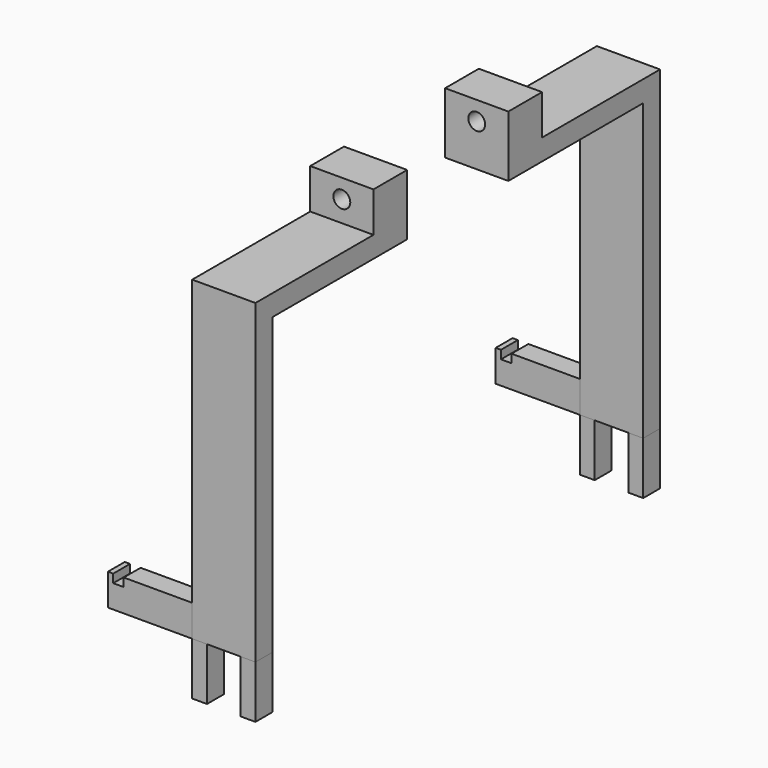
from build123d import *

# Parameters (mm, degrees)
F1_DEPTH  = 30
F2_W      = 30
F2_H      = 20
F3_DEPTH  = 20
F4_W      = 30
F4_H      = 20
F5_DEPTH  = 20
F7_D      = 8
F7_2_D    = 8
F8_W      = 7
F8_H      = 10
F9_DEPTH  = 30
F10_W     = 10
F10_H     = 15
F11_DEPTH = 40
F12_W     = 5
F12_H     = 4
F13_DEPTH = 240.001
F14_W     = 5
F14_H     = 4
F15_DEPTH = 240.001
F17_DEPTH = 69


with BuildPart() as f1:
    # F0 (on Right) → F1 (new body)
    with BuildSketch(Plane.YZ):
        Polygon((-120, 150), (-120, 0), (-110, 0), (-110, 140), (-30, 140), (-30, 150), align=None)
    extrude(amount=F1_DEPTH)

    # F2 (on face) → F3 (join)
    with BuildSketch(Plane.XY.offset(150)):
        with Locations((15, -40)):
            Rectangle(F2_W, F2_H)
    extrude(amount=F3_DEPTH)

    # F7 (through all)
    with Locations(Plane(origin=(0, 50, 0), x_dir=(-1, 0, 0), z_dir=(0, 1, 0))):
        with Locations((-15, 160)):
            Hole(F7_D / 2)

    # F14 (on face) → F15 (cut, through all)
    with BuildSketch(Plane(origin=(0, 120, 0), x_dir=(-1, 0, 0), z_dir=(0, 1, 0))):
        with Locations((35, 13)):
            Rectangle(F14_W, F14_H)
    extrude(amount=-F15_DEPTH, mode=Mode.SUBTRACT)


with BuildPart() as f1b:
    # F0 (on Right) → F1, piece 2 (new body)
    with BuildSketch(Plane.YZ):
        Polygon((110, 140), (110, 0), (120, 0), (120, 150), (30, 150), (30, 140), align=None)
    extrude(amount=F1_DEPTH)

    # F4 (on face) → F5 (join)
    with BuildSketch(Plane.XY.offset(150)):
        with Locations((15, 40)):
            Rectangle(F4_W, F4_H)
    extrude(amount=F5_DEPTH)

    # F7#2 (through all)
    with Locations(Plane(origin=(0, 50, 0), x_dir=(-1, 0, 0), z_dir=(0, 1, 0))):
        with Locations((-15, 160)):
            Hole(F7_2_D / 2)


with BuildPart() as f9:
    # F8 (on face) → F9 (new body)
    with BuildSketch(Plane(origin=(0, 0, 0), x_dir=(1, 0, 0), z_dir=(0, 0, -1))):
        with Locations((26.5, -115)):
            Rectangle(F8_W, F8_H)
    extrude(amount=F9_DEPTH)


with BuildPart() as f9b:
    # F8 (on face) → F9, piece 2 (new body)
    with BuildSketch(Plane(origin=(0, 0, 0), x_dir=(1, 0, 0), z_dir=(0, 0, -1))):
        with Locations((3.5, -115)):
            Rectangle(F8_W, F8_H)
    extrude(amount=F9_DEPTH)


with BuildPart() as f9c:
    # F8 (on face) → F9, piece 3 (new body)
    with BuildSketch(Plane(origin=(0, 0, 0), x_dir=(1, 0, 0), z_dir=(0, 0, -1))):
        with Locations((26.5, 115)):
            Rectangle(F8_W, F8_H)
    extrude(amount=F9_DEPTH)


with BuildPart() as f9d:
    # F8 (on face) → F9, piece 4 (new body)
    with BuildSketch(Plane(origin=(0, 0, 0), x_dir=(1, 0, 0), z_dir=(0, 0, -1))):
        with Locations((3.5, 115)):
            Rectangle(F8_W, F8_H)
    extrude(amount=F9_DEPTH)


with BuildPart() as f11:
    # F10 (on face) → F11 (new body)
    with BuildSketch(Plane(origin=(0, 0, 0), x_dir=(0, -1, 0), z_dir=(-1, 0, 0))):
        with Locations((-115, 7.5)):
            Rectangle(F10_W, F10_H)
    extrude(amount=F11_DEPTH)


with BuildPart() as f11b:
    # F10 (on face) → F11, piece 2 (new body)
    with BuildSketch(Plane(origin=(0, 0, 0), x_dir=(0, -1, 0), z_dir=(-1, 0, 0))):
        with Locations((115, 7.5)):
            Rectangle(F10_W, F10_H)
    extrude(amount=F11_DEPTH)


with BuildPart() as f13_tool:
    # F12 (on face) → F13 (new body, through all)
    with BuildSketch(Plane.XZ.offset(120)):
        with Locations((-35, 13)):
            Rectangle(F12_W, F12_H)
    extrude(amount=-F13_DEPTH)


with BuildPart() as f11_1:
    add(f11.part)

    # F13: cut by f13_tool
    add(f13_tool.part, mode=Mode.SUBTRACT)


with BuildPart() as f11b_1:
    add(f11b.part)

    # F13: cut by f13_tool
    add(f13_tool.part, mode=Mode.SUBTRACT)


with BuildPart() as f17_tool:
    # F16 (on face) → F17 (new body)
    with BuildSketch(Plane.YZ.offset(30)):
        Polygon((-57.1639947593, 169), (-30, 169), (57.6231703162, 169), (57.6231703162, 174.4881868362), (-57.1639947593, 174.4881868362), align=None)
        Polygon((137.1954828501, -25), (-110, -25), (-131.8146437407, -25), (-131.8146437407, -34.2673361301), (137.1954828501, -34.2673361301), align=None)
    extrude(amount=-F17_DEPTH)


with BuildPart() as f1_1:
    add(f1.part)

    # F17: cut by f17_tool
    add(f17_tool.part, mode=Mode.SUBTRACT)


with BuildPart() as f1b_1:
    add(f1b.part)

    # F17: cut by f17_tool
    add(f17_tool.part, mode=Mode.SUBTRACT)


with BuildPart() as f9_1:
    add(f9.part)

    # F17: cut by f17_tool
    add(f17_tool.part, mode=Mode.SUBTRACT)


with BuildPart() as f9b_1:
    add(f9b.part)

    # F17: cut by f17_tool
    add(f17_tool.part, mode=Mode.SUBTRACT)


with BuildPart() as f9c_1:
    add(f9c.part)

    # F17: cut by f17_tool
    add(f17_tool.part, mode=Mode.SUBTRACT)


with BuildPart() as f9d_1:
    add(f9d.part)

    # F17: cut by f17_tool
    add(f17_tool.part, mode=Mode.SUBTRACT)


solid = Compound([f11_1.part, f11b_1.part, f1_1.part, f1b_1.part, f9_1.part, f9b_1.part, f9c_1.part, f9d_1.part])
